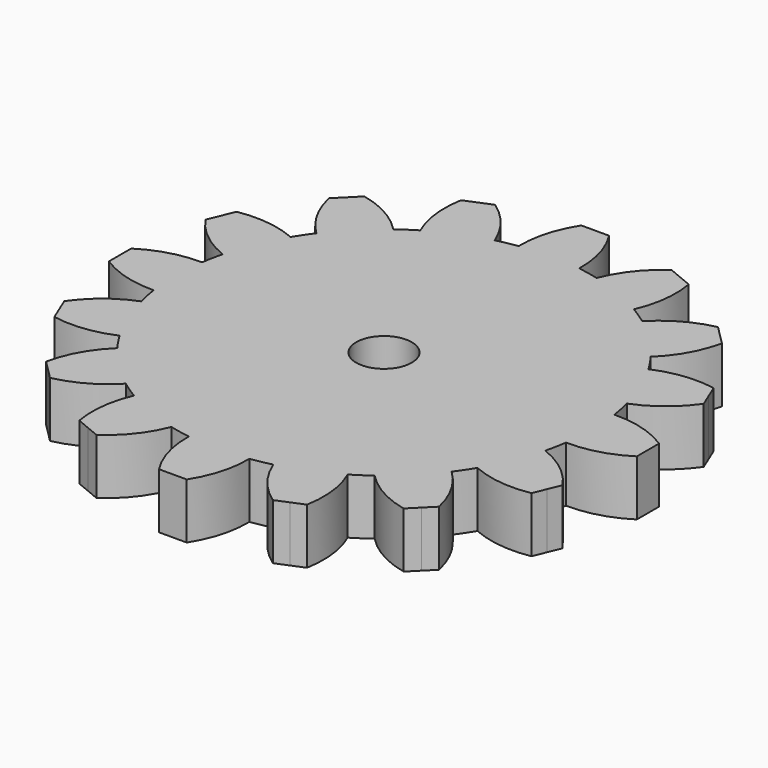
from build123d import *

# Parameters (mm, degrees)
F1_DEPTH = 2
F2_R     = 1
F3_DEPTH = 2.001


with BuildPart() as f1:
    # F0 (on Top) → F1 (new body)
    with BuildSketch(Plane.XY):
        with BuildLine():
            ThreePointArc((7.420617, -1.088319), (7.480128, -0.545605), (7.5, 0))
            ThreePointArc((7.5, 0), (7.480128, 0.545605), (7.420617, 1.088319))
            ThreePointArc((7.420617, 1.088319), (7.35589, 1.463177), (7.272238, 1.834271))
            ThreePointArc((7.272238, 1.834271), (6.929096, 2.870126), (6.439275, 3.845223))
            ThreePointArc((6.439275, 3.845223), (6.236022, 4.166777), (6.016727, 4.477611))
            ThreePointArc((6.016727, 4.477611), (5.303301, 5.303301), (4.477611, 6.016727))
            ThreePointArc((4.477611, 6.016727), (4.166777, 6.236022), (3.845223, 6.439275))
            ThreePointArc((3.845223, 6.439275), (2.870126, 6.929096), (1.834271, 7.272238))
            ThreePointArc((1.834271, 7.272238), (1.463177, 7.35589), (1.088319, 7.420617))
            ThreePointArc((1.088319, 7.420617), (0, 7.5), (-1.088319, 7.420617))
            ThreePointArc((-1.088319, 7.420617), (-1.463177, 7.35589), (-1.834271, 7.272238))
            ThreePointArc((-1.834271, 7.272238), (-2.870126, 6.929096), (-3.845223, 6.439275))
            ThreePointArc((-3.845223, 6.439275), (-4.166777, 6.236022), (-4.477611, 6.016727))
            ThreePointArc((-4.477611, 6.016727), (-5.303301, 5.303301), (-6.016727, 4.477611))
            ThreePointArc((-6.016727, 4.477611), (-6.236022, 4.166777), (-6.439275, 3.845223))
            ThreePointArc((-6.439275, 3.845223), (-6.929096, 2.870126), (-7.272238, 1.834271))
            ThreePointArc((-7.272238, 1.834271), (-7.35589, 1.463177), (-7.420617, 1.088319))
            ThreePointArc((-7.420617, 1.088319), (-7.5, 0), (-7.420617, -1.088319))
            ThreePointArc((-7.420617, -1.088319), (-7.35589, -1.463177), (-7.272238, -1.834271))
            ThreePointArc((-7.272238, -1.834271), (-6.929096, -2.870126), (-6.439275, -3.845223))
            ThreePointArc((-6.439275, -3.845223), (-6.236022, -4.166777), (-6.016727, -4.477611))
            ThreePointArc((-6.016727, -4.477611), (-5.303301, -5.303301), (-4.477611, -6.016727))
            ThreePointArc((-4.477611, -6.016727), (-4.166777, -6.236022), (-3.845223, -6.439275))
            ThreePointArc((-3.845223, -6.439275), (-2.870126, -6.929096), (-1.834271, -7.272238))
            ThreePointArc((-1.834271, -7.272238), (-1.463177, -7.35589), (-1.088319, -7.420617))
            ThreePointArc((-1.088319, -7.420617), (0, -7.5), (1.088319, -7.420617))
            ThreePointArc((1.088319, -7.420617), (1.463177, -7.35589), (1.834271, -7.272238))
            ThreePointArc((1.834271, -7.272238), (2.870126, -6.929096), (3.845223, -6.439275))
            ThreePointArc((3.845223, -6.439275), (4.166777, -6.236022), (4.477611, -6.016727))
            ThreePointArc((4.477611, -6.016727), (5.303301, -5.303301), (6.016727, -4.477611))
            ThreePointArc((6.016727, -4.477611), (6.236022, -4.166777), (6.439275, -3.845223))
            ThreePointArc((6.439275, -3.845223), (6.929096, -2.870126), (7.272238, -1.834271))
            ThreePointArc((7.272238, -1.834271), (7.35589, -1.463177), (7.420617, -1.088319))
        make_face()
        with BuildLine():
            ThreePointArc((7.420617, 1.088319), (7.480128, 0.545605), (7.5, 0))
            ThreePointArc((7.5, 0), (7.480128, -0.545605), (7.420617, -1.088319))
            ThreePointArc((7.420617, -1.088319), (8.504352, -0.949828), (9.5, -0.5))
            Line((9.5, -0.5), (9.5, 0))
            Line((9.5, 0), (9.5, 0.5))
            ThreePointArc((9.5, 0.5), (8.504352, 0.949828), (7.420617, 1.088319))
        make_face()
        with BuildLine():
            ThreePointArc((6.439275, 3.845223), (6.929096, 2.870126), (7.272238, 1.834271))
            ThreePointArc((7.272238, 1.834271), (8.22048, 2.376948), (8.968197, 3.173553))
            Line((8.968197, 3.173553), (8.776856, 3.635493))
            Line((8.776856, 3.635493), (8.585514, 4.097432))
            ThreePointArc((8.585514, 4.097432), (7.493513, 4.132001), (6.439275, 3.845223))
        make_face()
        with BuildLine():
            ThreePointArc((8.968197, -3.173553), (8.22048, -2.376948), (7.272238, -1.834271))
            ThreePointArc((7.272238, -1.834271), (6.929096, -2.870126), (6.439275, -3.845223))
            ThreePointArc((6.439275, -3.845223), (7.493513, -4.132001), (8.585514, -4.097432))
            Line((8.585514, -4.097432), (8.776856, -3.635493))
            Line((8.776856, -3.635493), (8.968197, -3.173553))
        make_face()
        with BuildLine():
            ThreePointArc((4.477611, 6.016727), (5.303301, 5.303301), (6.016727, 4.477611))
            ThreePointArc((6.016727, 4.477611), (6.685115, 5.341855), (7.071068, 6.363961))
            Line((7.071068, 6.363961), (6.717514, 6.717514))
            Line((6.717514, 6.717514), (6.363961, 7.071068))
            ThreePointArc((6.363961, 7.071068), (5.341855, 6.685115), (4.477611, 6.016727))
        make_face()
        with BuildLine():
            ThreePointArc((7.071068, -6.363961), (6.685115, -5.341855), (6.016727, -4.477611))
            ThreePointArc((6.016727, -4.477611), (5.303301, -5.303301), (4.477611, -6.016727))
            ThreePointArc((4.477611, -6.016727), (5.341855, -6.685115), (6.363961, -7.071068))
            Line((6.363961, -7.071068), (6.717514, -6.717514))
            Line((6.717514, -6.717514), (7.071068, -6.363961))
        make_face()
        with BuildLine():
            ThreePointArc((1.834271, 7.272238), (2.870126, 6.929096), (3.845223, 6.439275))
            ThreePointArc((3.845223, 6.439275), (4.132001, 7.493513), (4.097432, 8.585514))
            Line((4.097432, 8.585514), (3.635493, 8.776856))
            Line((3.635493, 8.776856), (3.173553, 8.968197))
            ThreePointArc((3.173553, 8.968197), (2.376948, 8.22048), (1.834271, 7.272238))
        make_face()
        with BuildLine():
            ThreePointArc((4.097432, -8.585514), (4.132001, -7.493513), (3.845223, -6.439275))
            ThreePointArc((3.845223, -6.439275), (2.870126, -6.929096), (1.834271, -7.272238))
            ThreePointArc((1.834271, -7.272238), (2.376948, -8.22048), (3.173553, -8.968197))
            Line((3.173553, -8.968197), (3.635493, -8.776856))
            Line((3.635493, -8.776856), (4.097432, -8.585514))
        make_face()
        with BuildLine():
            ThreePointArc((-1.088319, 7.420617), (0, 7.5), (1.088319, 7.420617))
            ThreePointArc((1.088319, 7.420617), (0.949828, 8.504352), (0.5, 9.5))
            Line((0.5, 9.5), (0, 9.5))
            Line((0, 9.5), (-0.5, 9.5))
            ThreePointArc((-0.5, 9.5), (-0.949828, 8.504352), (-1.088319, 7.420617))
        make_face()
        with BuildLine():
            ThreePointArc((0.5, -9.5), (0.949828, -8.504352), (1.088319, -7.420617))
            ThreePointArc((1.088319, -7.420617), (0, -7.5), (-1.088319, -7.420617))
            ThreePointArc((-1.088319, -7.420617), (-0.949828, -8.504352), (-0.5, -9.5))
            Line((-0.5, -9.5), (0, -9.5))
            Line((0, -9.5), (0.5, -9.5))
        make_face()
        with BuildLine():
            ThreePointArc((-3.845223, 6.439275), (-2.870126, 6.929096), (-1.834271, 7.272238))
            ThreePointArc((-1.834271, 7.272238), (-2.376948, 8.22048), (-3.173553, 8.968197))
            Line((-3.173553, 8.968197), (-3.635493, 8.776856))
            Line((-3.635493, 8.776856), (-4.097432, 8.585514))
            ThreePointArc((-4.097432, 8.585514), (-4.132001, 7.493513), (-3.845223, 6.439275))
        make_face()
        with BuildLine():
            ThreePointArc((-3.173553, -8.968197), (-2.376948, -8.22048), (-1.834271, -7.272238))
            ThreePointArc((-1.834271, -7.272238), (-2.870126, -6.929096), (-3.845223, -6.439275))
            ThreePointArc((-3.845223, -6.439275), (-4.132001, -7.493513), (-4.097432, -8.585514))
            Line((-4.097432, -8.585514), (-3.635493, -8.776856))
            Line((-3.635493, -8.776856), (-3.173553, -8.968197))
        make_face()
        with BuildLine():
            ThreePointArc((-6.016727, 4.477611), (-5.303301, 5.303301), (-4.477611, 6.016727))
            ThreePointArc((-4.477611, 6.016727), (-5.341855, 6.685115), (-6.363961, 7.071068))
            Line((-6.363961, 7.071068), (-6.717514, 6.717514))
            Line((-6.717514, 6.717514), (-7.071068, 6.363961))
            ThreePointArc((-7.071068, 6.363961), (-6.685115, 5.341855), (-6.016727, 4.477611))
        make_face()
        with BuildLine():
            ThreePointArc((-6.363961, -7.071068), (-5.341855, -6.685115), (-4.477611, -6.016727))
            ThreePointArc((-4.477611, -6.016727), (-5.303301, -5.303301), (-6.016727, -4.477611))
            ThreePointArc((-6.016727, -4.477611), (-6.685115, -5.341855), (-7.071068, -6.363961))
            Line((-7.071068, -6.363961), (-6.717514, -6.717514))
            Line((-6.717514, -6.717514), (-6.363961, -7.071068))
        make_face()
        with BuildLine():
            ThreePointArc((-7.272238, 1.834271), (-6.929096, 2.870126), (-6.439275, 3.845223))
            ThreePointArc((-6.439275, 3.845223), (-7.493513, 4.132001), (-8.585514, 4.097432))
            Line((-8.585514, 4.097432), (-8.776856, 3.635493))
            Line((-8.776856, 3.635493), (-8.968197, 3.173553))
            ThreePointArc((-8.968197, 3.173553), (-8.22048, 2.376948), (-7.272238, 1.834271))
        make_face()
        with BuildLine():
            ThreePointArc((-8.585514, -4.097432), (-7.493513, -4.132001), (-6.439275, -3.845223))
            ThreePointArc((-6.439275, -3.845223), (-6.929096, -2.870126), (-7.272238, -1.834271))
            ThreePointArc((-7.272238, -1.834271), (-8.22048, -2.376948), (-8.968197, -3.173553))
            Line((-8.968197, -3.173553), (-8.776856, -3.635493))
            Line((-8.776856, -3.635493), (-8.585514, -4.097432))
        make_face()
        with BuildLine():
            ThreePointArc((-7.420617, -1.088319), (-7.5, 0), (-7.420617, 1.088319))
            ThreePointArc((-7.420617, 1.088319), (-8.504352, 0.949828), (-9.5, 0.5))
            Line((-9.5, 0.5), (-9.5, 0))
            Line((-9.5, 0), (-9.5, -0.5))
            ThreePointArc((-9.5, -0.5), (-8.504352, -0.949828), (-7.420617, -1.088319))
        make_face()
    extrude(amount=F1_DEPTH)

    # F2 (on face) → F3 (cut, through all)
    with BuildSketch(Plane.XY.offset(2)):
        Circle(F2_R)
    extrude(amount=-F3_DEPTH, mode=Mode.SUBTRACT)


solid = f1.part
